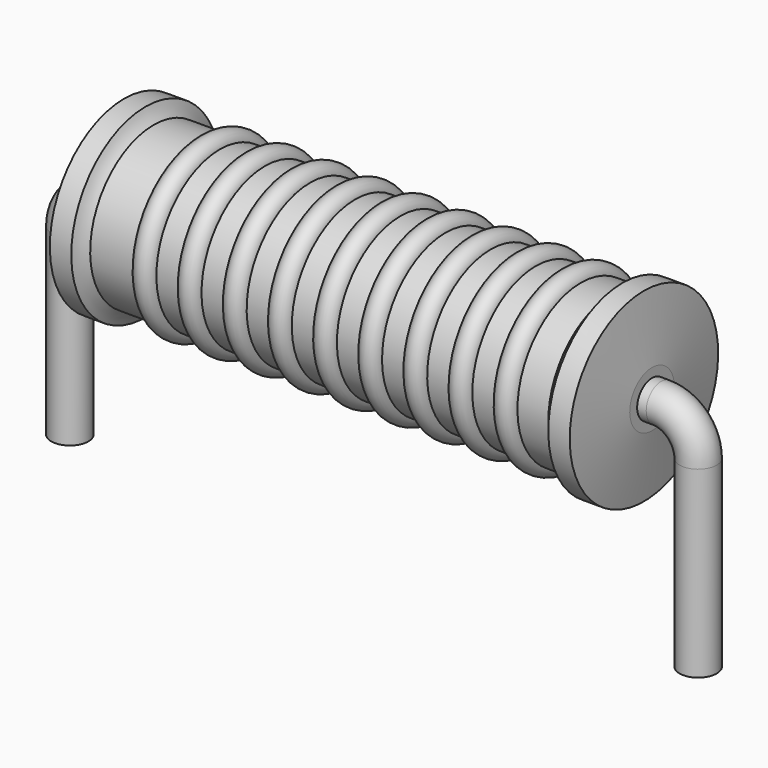
from build123d import *

# Parameters (mm, degrees)
SKETCH_R = 0.45


with BuildPart() as revolution:
    # Sketch002 → Revolution (revolve)
    with BuildSketch(Plane.XZ):
        with BuildLine():
            Line((1.315, 4.6), (1.835, 4.6))
            ThreePointArc((1.835, 4.6), (1.916575, 4.426884), (2.033, 4.275))
            Line((2.033, 4.275), (13.145, 4.275))
            ThreePointArc((13.145, 4.275), (13.291747, 4.424102), (13.405, 4.6))
            Line((13.405, 4.6), (13.925, 4.6))
            ThreePointArc((14.12, 3.025), (14.023869, 3.812669), (13.925, 4.6))
            Line((14.12, 2.35), (14.12, 3.025))
            Line((1.12, 2.35), (14.12, 2.35))
            Line((1.12, 2.35), (1.12, 3.025))
            ThreePointArc((1.315, 4.6), (1.216131, 3.812669), (1.12, 3.025))
        make_face()
    revolve(axis=Axis((1.12, 0, 2.35), (1, 0, 0)))


with BuildPart() as sweep_body:
    # Sweep: sweep along a path in Sketch001
    with BuildLine(Plane.XZ) as sweep_path:
        Line((0, -3), (0, 1.45))
        ThreePointArc((0, 1.45), (0.263601, 2.086393), (0.899993, 2.35))
        Line((0.899993, 2.35), (14.34, 2.35))
        ThreePointArc((14.34, 2.35), (14.976396, 2.086396), (15.24, 1.45))
        Line((15.24, 1.45), (15.24, -3))
    # Sketch → Sweep (sweep)
    with BuildSketch(Plane.XY.offset(-2)):
        Circle(SKETCH_R)
    sweep(path=sweep_path.line)


with BuildPart() as revolution001:
    # Sketch003 → Revolution001 (revolve)
    with BuildSketch(Plane.XZ):
        with BuildLine():
            ThreePointArc((3.644737, 4.223), (3.371053, 4.496684), (3.097368, 4.223))
            Line((2.55, 4.223), (3.097368, 4.223))
            Line((2.55, 4.223), (2.55, 3.773))
            Line((2.55, 3.773), (12.95, 3.773))
            Line((12.95, 3.773), (12.95, 4.223))
            Line((12.402632, 4.223), (12.95, 4.223))
            ThreePointArc((12.402632, 4.223), (12.128947, 4.496684), (11.855263, 4.223))
            Line((11.307895, 4.223), (11.855263, 4.223))
            ThreePointArc((11.307895, 4.223), (11.034211, 4.496684), (10.760526, 4.223))
            Line((10.213158, 4.223), (10.760526, 4.223))
            ThreePointArc((10.213158, 4.223), (9.939474, 4.496684), (9.665789, 4.223))
            Line((9.118421, 4.223), (9.665789, 4.223))
            ThreePointArc((9.118421, 4.223), (8.844737, 4.496684), (8.571053, 4.223))
            Line((8.023684, 4.223), (8.571053, 4.223))
            ThreePointArc((8.023684, 4.223), (7.75, 4.496684), (7.476316, 4.223))
            Line((6.928947, 4.223), (7.476316, 4.223))
            ThreePointArc((6.928947, 4.223), (6.655263, 4.496684), (6.381579, 4.223))
            Line((5.834211, 4.223), (6.381579, 4.223))
            ThreePointArc((5.834211, 4.223), (5.560526, 4.496684), (5.286842, 4.223))
            Line((4.739474, 4.223), (5.286842, 4.223))
            ThreePointArc((4.739474, 4.223), (4.465789, 4.496684), (4.192105, 4.223))
            Line((3.644737, 4.223), (4.192105, 4.223))
        make_face()
    revolve(axis=Axis((1.445, 0, 2.35), (1, 0, 0)))


solid = Compound([revolution.part, sweep_body.part, revolution001.part])
